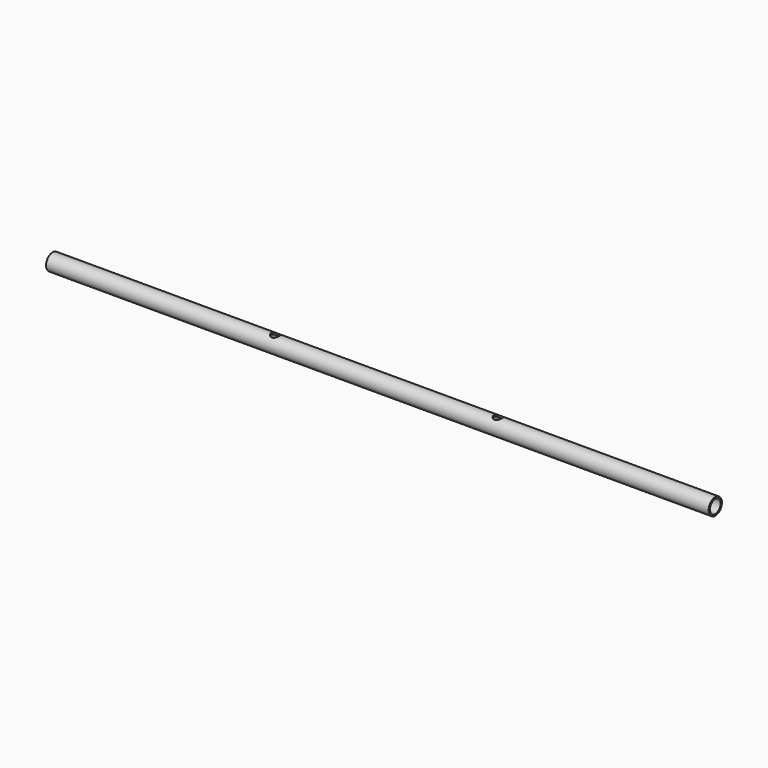
from build123d import *

# Parameters (mm, degrees)
F0_R     = 12.7
F0_R_2   = 10.210562
F1_DEPTH = 1016
F2_R     = 6.35
F3_DEPTH = 25.4


with BuildPart() as f1:
    # F0 (on Right) → F1 (new body)
    with BuildSketch(Plane.YZ):
        Circle(F0_R)
        Circle(F0_R_2, mode=Mode.SUBTRACT)
    extrude(amount=F1_DEPTH)

    # F2 (on Top) → F3 (cut)
    with BuildSketch(Plane.XY):
        with Locations((341.376, 0)):
            Circle(F2_R)
        with Locations((682.752, 0)):
            Circle(F2_R)
        with Locations((1024.128, 0)):
            Circle(F2_R)
        with Locations((1365.504, 0)):
            Circle(F2_R)
    extrude(amount=F3_DEPTH, mode=Mode.SUBTRACT)


solid = f1.part
